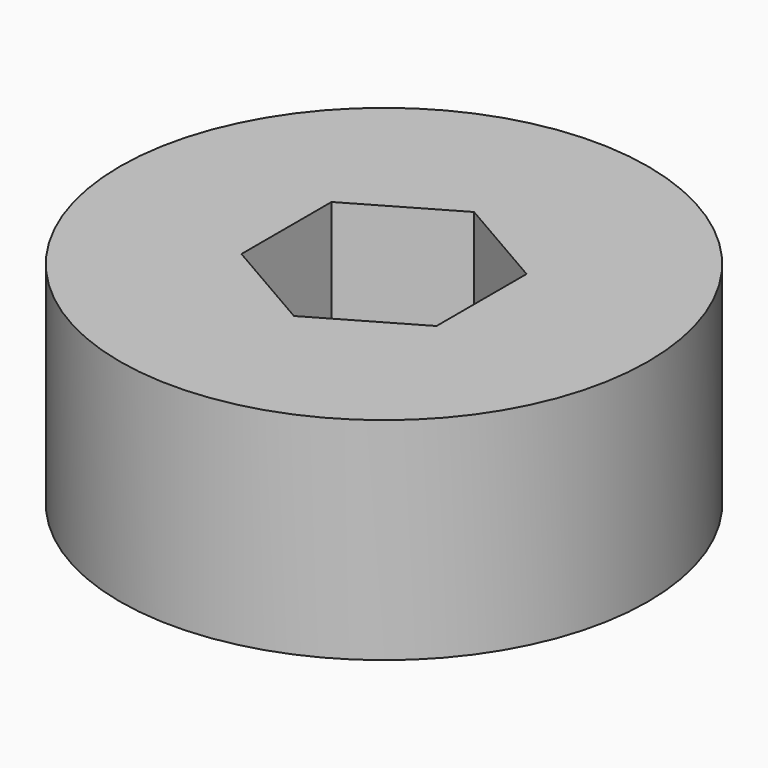
from build123d import *

# Parameters (mm, degrees)
F0_R     = 7.5
F0_R_2   = 1.8
F1_DEPTH = 6
F3_DEPTH = 3


with BuildPart() as f1:
    # F0 (on Top) → F1 (new body)
    with BuildSketch(Plane.XY):
        Circle(F0_R)
        Circle(F0_R_2, mode=Mode.SUBTRACT)
    extrude(amount=F1_DEPTH)

    # F2 (on face) → F3 (cut)
    with BuildSketch(Plane.XY.offset(6)):
        Polygon((2.76905, 1.598712), (0, 3.197424), (-2.76905, 1.598712), (-2.76905, -1.598712), (0, -3.197424), (2.76905, -1.598712), align=None)
    extrude(amount=-F3_DEPTH, mode=Mode.SUBTRACT)


solid = f1.part
